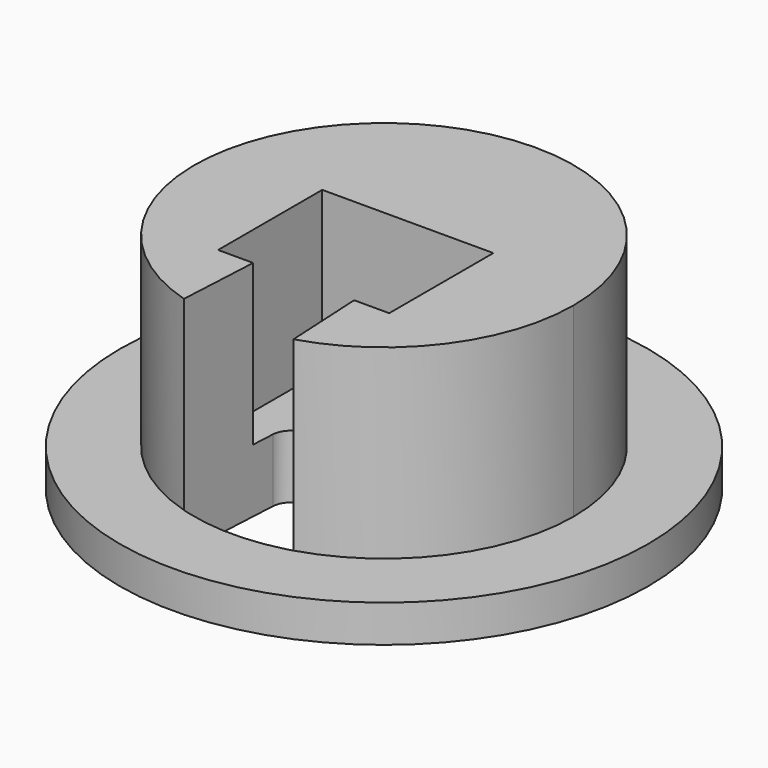
from build123d import *

# Parameters (mm, degrees)
F0_R     = 7.1
F1_DEPTH = 1
F2_DEPTH = 6
F3_R     = 0.5
F6_DEPTH = 4.3


with BuildPart() as f1:
    # F0 (on Top) → F1 (new body)
    with BuildSketch(Plane.XY):
        Circle(F0_R)
        with BuildLine():
            ThreePointArc((-1.4720513892, -4.8829360745), (-3.0415898733, 4.0937429136), (5.1, 0))
            ThreePointArc((5.1, 0), (4.0937429136, -3.0415898733), (1.4720513892, -4.8829360745))
            ThreePointArc((1.4720513892, -4.8829360745), (1.3862386511, -4.9079876123), (1.3, -4.9315312024))
            ThreePointArc((1.3, -4.9315312024), (0, -5.1), (-1.3, -4.9315312024))
            ThreePointArc((-1.3, -4.9315312024), (-1.3862386511, -4.9079876123), (-1.4720513892, -4.8829360745))
        make_face(mode=Mode.SUBTRACT)
    extrude(amount=F1_DEPTH)

    # F0 (on Top) → F2 (join)
    with BuildSketch(Plane.XY):
        with BuildLine():
            ThreePointArc((1.4720513892, -4.8829360745), (4.0937429136, -3.0415898733), (5.1, 0))
            ThreePointArc((5.1, 0), (-3.0415898733, 4.0937429136), (-1.4720513892, -4.8829360745))
            Line((-1.4720513892, -4.8829360745), (-1.3, -1.6))
            Line((-1.3, -1.6), (1.3, -1.6))
            Line((1.3, -1.6), (1.4720513892, -4.8829360745))
        make_face()
    extrude(amount=F2_DEPTH)

    # F3
    f3_edges = [f1.edges().sort_by_distance(p)[0] for p in [
        (-1.3, -1.6, 3),
        (1.3, -1.6, 3),
    ]]
    fillet(f3_edges, radius=F3_R)

    # F5 (on offset) → F6 (cut)
    with BuildSketch(Plane.XY.offset(6)):
        Polygon((2.3, 0.8), (-2.3, 0.8), (-2.3, -2.7), (-1.3, -2.7), (1.3, -2.7), (2.3, -2.7), align=None)
    extrude(amount=-F6_DEPTH, mode=Mode.SUBTRACT)


solid = f1.part
